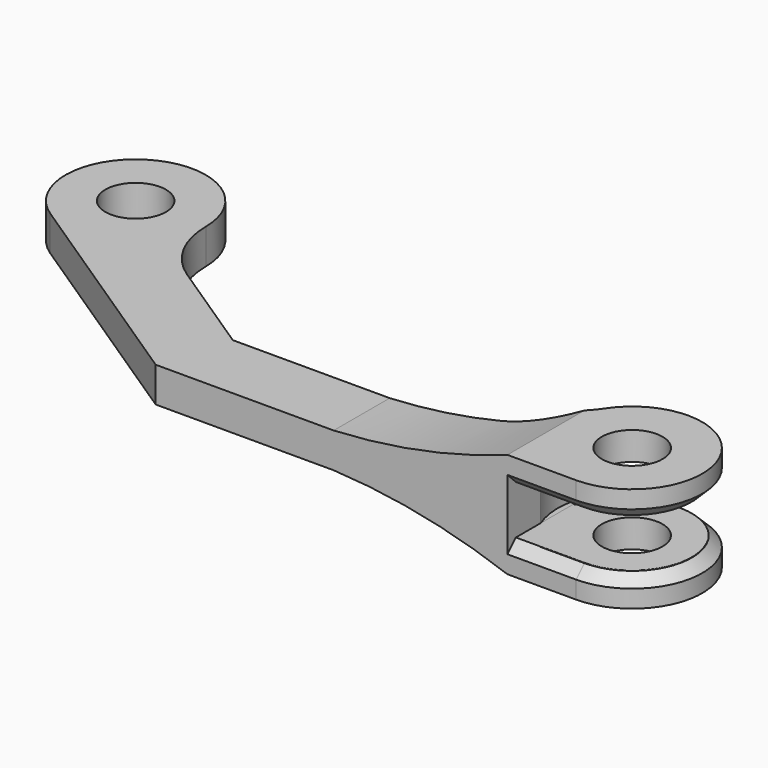
from build123d import *

# Parameters (mm, degrees)
F0_R     = 2.2
F0_R_2   = 2.1971
F1_DEPTH = 7.62
F2_W     = 28.0110656295
F2_H     = 2.54
F2_W_2   = 22.6645800316
F2_W_3   = 4.979133783
F2_H_2   = 0.5
F3_DEPTH = 20.0683044223
F4_SIZE  = 0.762
F6_DEPTH = 3.556


with BuildPart() as f1:
    # F0 (on Top) → F1 (new body)
    with BuildSketch(Plane.XY):
        with BuildLine():
            Line((15.8225760806, -27.7820999121), (46.3025760806, -27.7820999121))
            ThreePointArc((46.3025760806, -27.7820999121), (50.7827149674, -20.3073649465), (42.0786606307, -19.8798776899))
            ThreePointArc((42.0786606307, -19.8798776899), (39.7921850253, -21.9522735206), (36.7987663182, -22.7020999121))
            Line((36.7987663182, -22.7020999121), (17.3511607734, -22.7020999121))
            Line((17.3511607734, -22.7020999121), (10.3047796089, -18.039378974))
            ThreePointArc((10.3047796089, -18.039378974), (8.2222025702, -15.7621727798), (7.4590275548, -12.7721294576))
            ThreePointArc((7.4590275548, -12.7721294576), (-0.0356225692, -8.3253860683), (-0.4242696697, -17.0312611353))
            Line((-0.4242696697, -17.0312611353), (15.8225760806, -27.7820999121))
        make_face()
        with Locations((46.3025760806, -22.7020999121)):
            Circle(F0_R, mode=Mode.SUBTRACT)
        with Locations((2.3790781209, -12.7947954899)):
            Circle(F0_R_2, mode=Mode.SUBTRACT)
    extrude(amount=F1_DEPTH)

    # F2 (on face) → F3 (cut, through all)
    with BuildSketch(Plane.XZ.offset(27.7820999121)):
        with Locations((1.8170432659, 6.35)):
            Rectangle(F2_W, F2_H)
        with BuildLine():
            ThreePointArc((28.7234354764, 5.08), (35.1186689007, 5.8775988889), (41.3234422976, 7.62))
            Line((41.3234422976, 7.62), (15.8225760806, 7.62))
            Line((15.8225760806, 7.62), (15.8225760806, 5.08))
            Line((15.8225760806, 5.08), (28.7234354764, 5.08))
        make_face()
        with Locations((1.8170432659, 1.27)):
            Rectangle(F2_W, F2_H)
        with BuildLine():
            Line((28.7234354764, 2.54), (15.8225760806, 2.54))
            Line((15.8225760806, 2.54), (15.8225760806, 0))
            Line((15.8225760806, 0), (41.3234422976, 0))
            ThreePointArc((41.3234422976, 0), (35.1186689007, 1.7424011111), (28.7234354764, 2.54))
        make_face()
        with Locations((57.6348660964, 3.81)):
            Rectangle(F2_W_2, F2_H)
        with Locations((43.8130091891, 3.81)):
            Rectangle(F2_W_3, F2_H)
        with Locations((43.8130091891, 5.33)):
            Rectangle(F2_W_3, F2_H_2)
        Polygon((71.3474079967, 5.58), (46.3025760806, 5.58), (46.3025760806, 5.08), (68.9671561122, 5.08), (71.3474079967, 5.08), align=None)
        with Locations((43.8130091891, 2.29)):
            Rectangle(F2_W_3, F2_H_2)
        Polygon((68.9671561122, 2.54), (46.3025760806, 2.54), (46.3025760806, 2.04), (71.7107877135, 2.04), (71.7107877135, 2.54), align=None)
    extrude(amount=-F3_DEPTH, mode=Mode.SUBTRACT)

    # F4
    f4_edges = [f1.edges().sort_by_distance(p)[0] for p in [
        (50.782715, -20.307365, 5.58),
        (50.782715, -20.307365, 2.04),
    ]]
    chamfer(f4_edges, length=F4_SIZE)

    # F5 (on face) → F6 (cut)
    with BuildSketch(Plane(origin=(0, 0, 5.58), x_dir=(1, 0, 0), z_dir=(0, 0, -1))):
        with BuildLine():
            ThreePointArc((41.3234422976, 24.7703452828), (45.248089001, 17.4146176057), (51.6941817916, 22.7020999121))
            ThreePointArc((51.6941817916, 22.7020999121), (48.7172929125, 27.5227383309), (43.0739094608, 27.0200999121))
            Line((43.0739094608, 27.0200999121), (46.3025760806, 27.0200999121))
            ThreePointArc((46.3025760806, 27.0200999121), (50.1106941344, 20.6665751914), (42.7122479482, 20.3032110232))
            ThreePointArc((42.7122479482, 20.3032110232), (42.0740454563, 21.1220028477), (41.3234422976, 21.8391620843))
            Line((41.3234422976, 21.8391620843), (41.3234422976, 24.7703452828))
        make_face()
    extrude(amount=F6_DEPTH, mode=Mode.SUBTRACT)


with BuildPart() as f7_1:
    # F7: copy of F1
    add(f1.part)


solid = Compound([f1.part, f7_1.part])
